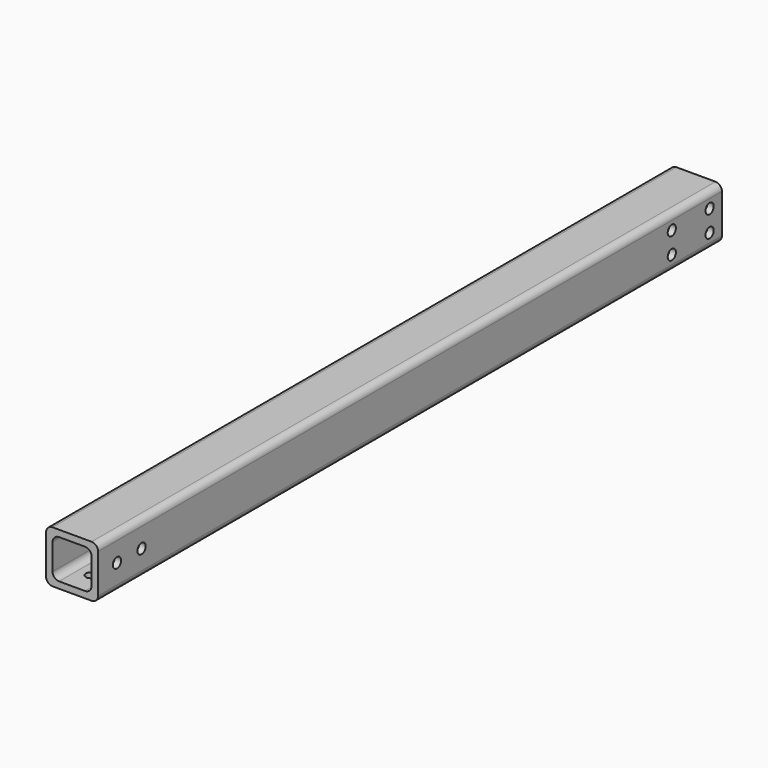
from build123d import *

# Parameters (mm, degrees)
F1_DEPTH = 762
F2_R     = 5
F3_DEPTH = 25
F4_R     = 5
F5_DEPTH = 25
F6_R     = 5
F7_DEPTH = 25
F8_R     = 5
F9_DEPTH = 25


with BuildPart() as f1:
    # F0 (on Front) → F1 (new body)
    with BuildSketch(Plane.XZ):
        with BuildLine():
            Line((20.354675, 24.193632), (-17.745325, 24.193632))
            ThreePointArc((-17.745325, 24.193632), (-22.235453, 22.33376), (-24.095325, 17.843632))
            Line((-24.095325, 17.843632), (-24.095325, -20.256368))
            ThreePointArc((-24.095325, -20.256368), (-22.235453, -24.746497), (-17.745325, -26.606368))
            Line((-17.745325, -26.606368), (20.354675, -26.606368))
            ThreePointArc((20.354675, -26.606368), (24.844803, -24.746497), (26.704675, -20.256368))
            Line((26.704675, -20.256368), (26.704675, 17.843632))
            ThreePointArc((26.704675, 17.843632), (24.844803, 22.33376), (20.354675, 24.193632))
        make_face()
        with BuildLine():
            ThreePointArc((-17.745325, 11.493632), (-15.885453, 15.98376), (-11.395325, 17.843632))
            Line((-11.395325, 17.843632), (14.004675, 17.843632))
            ThreePointArc((14.004675, 17.843632), (18.494803, 15.98376), (20.354675, 11.493632))
            Line((20.354675, 11.493632), (20.354675, -13.906368))
            ThreePointArc((20.354675, -13.906368), (18.494803, -18.396497), (14.004675, -20.256368))
            Line((14.004675, -20.256368), (-11.395325, -20.256368))
            ThreePointArc((-11.395325, -20.256368), (-15.885453, -18.396497), (-17.745325, -13.906368))
            Line((-17.745325, -13.906368), (-17.745325, 11.493632))
        make_face(mode=Mode.SUBTRACT)
    extrude(amount=F1_DEPTH)

    # F2 (on face) → F3 (cut)
    with BuildSketch(Plane.YZ.offset(26.704675)):
        with Locations((-15, 9.193632)):
            Circle(F2_R)
        with Locations((-15, -11.606368)):
            Circle(F2_R)
        with Locations((-61.2, 9.193632)):
            Circle(F2_R)
        with Locations((-61.2, -11.606368)):
            Circle(F2_R)
    extrude(amount=-F3_DEPTH, mode=Mode.SUBTRACT)

    # F4 (on face) → F5 (cut)
    with BuildSketch(Plane(origin=(0, 0, -26.606368), x_dir=(1, 0, 0), z_dir=(0, 0, -1))):
        with Locations((11.704675, 15)):
            Circle(F4_R)
        with Locations((-9.095325, 15)):
            Circle(F4_R)
        with Locations((11.704675, 61.2)):
            Circle(F4_R)
        with Locations((-9.095325, 61.2)):
            Circle(F4_R)
    extrude(amount=-F5_DEPTH, mode=Mode.SUBTRACT)

    # F6 (on face) → F7 (cut)
    with BuildSketch(Plane(origin=(0, 0, -26.606368), x_dir=(1, 0, 0), z_dir=(0, 0, -1))):
        with Locations((1.304675, 738.9)):
            Circle(F6_R)
        with Locations((1.304675, 708.9)):
            Circle(F6_R)
    extrude(amount=-F7_DEPTH, mode=Mode.SUBTRACT)

    # F8 (on face) → F9 (cut)
    with BuildSketch(Plane.YZ.offset(26.704675)):
        with Locations((-738.9, -1.206368)):
            Circle(F8_R)
        with Locations((-708.9, -1.206368)):
            Circle(F8_R)
    extrude(amount=-F9_DEPTH, mode=Mode.SUBTRACT)


solid = f1.part
